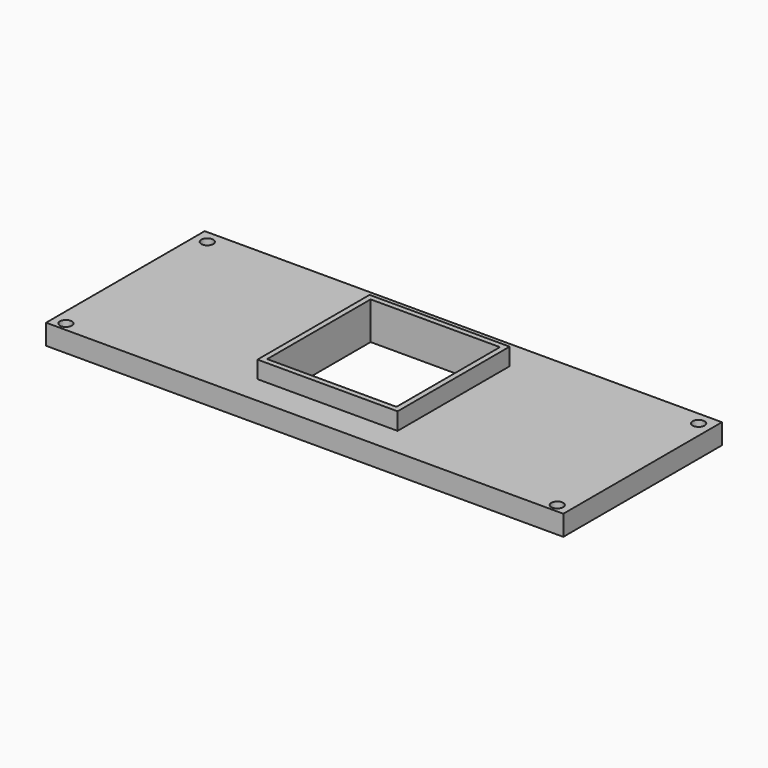
from build123d import *

# Parameters (mm, degrees)
F0_W     = 152.4
F0_H     = 58.42
F0_R     = 1.75895
F0_W_2   = 38.1
F0_H_2   = 38.1
F1_DEPTH = 6
F2_W     = 41.275
F2_H     = 41.275
F2_W_2   = 38.1
F2_H_2   = 38.1
F3_DEPTH = 5.08


with BuildPart() as f1:
    # F0 (on Top) → F1 (new body)
    with BuildSketch(Plane.XY):
        with Locations((76.2, 29.21)):
            Rectangle(F0_W, F0_H)
        with Locations((3.81, 2.54)):
            Circle(F0_R, mode=Mode.SUBTRACT)
        with Locations((148.59, 2.54)):
            Circle(F0_R, mode=Mode.SUBTRACT)
        with Locations((76.2, 29.05)):
            Rectangle(F0_W_2, F0_H_2, mode=Mode.SUBTRACT)
        with Locations((3.81, 54.61)):
            Circle(F0_R, mode=Mode.SUBTRACT)
        with Locations((148.59, 54.61)):
            Circle(F0_R, mode=Mode.SUBTRACT)
    extrude(amount=F1_DEPTH)

    # F2 (on face) → F3 (join)
    with BuildSketch(Plane.XY.offset(6)):
        with Locations((76.2, 29.05)):
            Rectangle(F2_W, F2_H)
        with Locations((76.2, 29.05)):
            Rectangle(F2_W_2, F2_H_2, mode=Mode.SUBTRACT)
    extrude(amount=F3_DEPTH)


solid = f1.part
